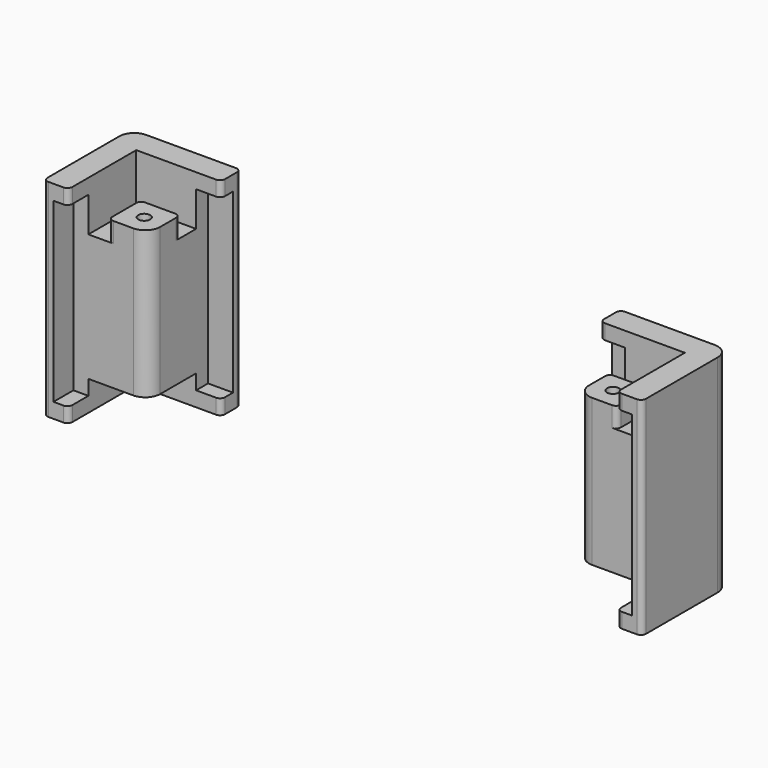
from build123d import *

# Parameters (mm, degrees)
CYLINDER011_R     = 1.2
CYLINDER011_DEPTH = 70
BOX023_W          = 30
BOX023_H          = 30
BOX023_DEPTH      = 6
EXTRUDE_DEPTH     = 10
BOX021_W          = 30
BOX021_H          = 30
BOX021_DEPTH      = 6
BOX020_W          = 15
BOX020_H          = 15
BOX020_DEPTH      = 35.5
FILLET001_R       = 3
BOX019_W          = 22
BOX019_H          = 22
BOX019_DEPTH      = 35.5
BOX018_W          = 22
BOX018_H          = 22
BOX018_DEPTH      = 41.5
FILLET_R          = 3
FILLET002_R       = 1


with BuildPart() as cylinder011:
    # Cylinder011 → Cylinder011 (new body)
    with BuildSketch(Plane(origin=(13, 13, -17), x_dir=(1, 0, 0), z_dir=(0, 0, 1))):
        Circle(CYLINDER011_R)
    extrude(amount=CYLINDER011_DEPTH)


with BuildPart() as cube022:
    # Box023 → Box023 (new body)
    with BuildSketch(Plane(origin=(5, 5, 35.5), x_dir=(1, 0, 0), z_dir=(0, 0, 1))):
        with Locations((15, 15)):
            Rectangle(BOX023_W, BOX023_H)
    extrude(amount=BOX023_DEPTH)


with BuildPart() as extrude_body:
    # Sketch017 → Extrude (new body)
    with BuildSketch(Plane.XY):
        Polygon((0, 0), (0, 16.8463), (4, 16.8463), (4, 4), (16.8463, 4), (16.8463, 0), align=None)
    extrude(amount=EXTRUDE_DEPTH)


with BuildPart() as extrude_body_1:
    # Extrude placement: moved
    add(extrude_body.part.moved(Location((5, 5, 31.5))))


with BuildPart() as fusion:
    # Box021 → Box021 (new body)
    with BuildSketch(Plane(origin=(5, 5, 0), x_dir=(1, 0, 0), z_dir=(0, 0, 1))):
        with Locations((15, 15)):
            Rectangle(BOX021_W, BOX021_H)
    extrude(amount=BOX021_DEPTH)

    # Fusion: union Cylinder011, Cube022, Extrude body
    add(cylinder011.part)
    add(cube022.part)
    add(extrude_body_1.part)


with BuildPart() as fillet001:
    # Box020 → Box020 (new body)
    with BuildSketch(Plane(origin=(2, 2, 3), x_dir=(1, 0, 0), z_dir=(0, 0, 1))):
        with Locations((7.5, 7.5)):
            Rectangle(BOX020_W, BOX020_H)
    extrude(amount=BOX020_DEPTH)

    # Fillet001
    fillet001_edges = [fillet001.edges().sort_by_distance(p)[0] for p in [
        (17, 17, 20.75),
    ]]
    fillet(fillet001_edges, radius=FILLET001_R)


with BuildPart() as cube019:
    # Box019 → Box019 (new body)
    with BuildSketch(Plane(origin=(2, 2, 3), x_dir=(1, 0, 0), z_dir=(0, 0, 1))):
        with Locations((11, 11)):
            Rectangle(BOX019_W, BOX019_H)
    extrude(amount=BOX019_DEPTH)


with BuildPart() as corner_part_clone:
    # Box018 → Box018 (new body)
    with BuildSketch(Plane.XY):
        with Locations((11, 11)):
            Rectangle(BOX018_W, BOX018_H)
    extrude(amount=BOX018_DEPTH)

    # Fillet
    fillet_edges = [corner_part_clone.edges().sort_by_distance(p)[0] for p in [
        (0, 0, 20.75),
    ]]
    fillet(fillet_edges, radius=FILLET_R)

    # Cut: cut Cube019
    add(cube019.part, mode=Mode.SUBTRACT)

    # Fusion007: union Fillet001
    add(fillet001.part)

    # Cut008: cut Fusion
    add(fusion.part, mode=Mode.SUBTRACT)

    # Fillet002
    fillet002_edges = [corner_part_clone.edges().sort_by_distance(p)[0] for p in [
        (0, 22, 20.75),
        (5, 22, 1.5),
        (5, 22, 40),
        (22, 5, 40),
        (22, 5, 1.5),
        (22, 0, 20.75),
        (9, 17, 33.5),
        (17, 9, 33.5),
        (9, 9, 33.5),
    ]]
    fillet(fillet002_edges, radius=FILLET002_R)


with BuildPart() as corner_part_clone_1:
    # Body005 placement: moved
    add(corner_part_clone.part.moved(Location((-5, -5, -2.5))))


with BuildPart() as corners_compound:
    # Part__Mirroring001: instance of corner part clone
    add(corner_part_clone_1.part.mirror(Plane(origin=(55, 0, 0), x_dir=(0, -1, 0), z_dir=(1, 0, 0))))

    # Compound: union corner part clone
    add(corner_part_clone_1.part)


with BuildPart() as part_mirroring002:
    # Part__Mirroring002: instance of corners compound
    add(corners_compound.part.mirror(Plane(origin=(0, 0, 0), x_dir=(1, 0, 0), z_dir=(0, 1, 0))))


with BuildPart() as part_mirroring002_1:
    # Part__Mirroring002 placement: moved
    add(part_mirroring002.part.moved(Location((0, 99, 0))))


solid = part_mirroring002_1.part
